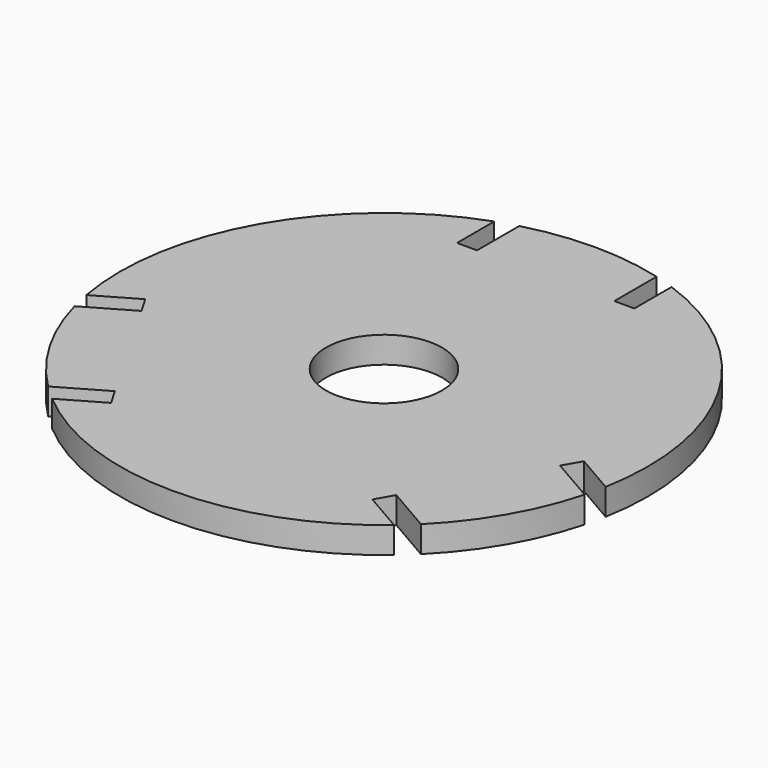
from build123d import *

# Parameters (mm, degrees)
F0_R     = 13.97
F1_DEPTH = 6.35


with BuildPart() as f1:
    # F0 (on Top) → F1 (new body)
    with BuildSketch(Plane.XY):
        with BuildLine():
            Line((-21.336, 48.616147), (-21.336, 59.808236))
            ThreePointArc((-21.336, 59.808236), (-54.992613, 31.75), (-62.463452, -11.4266))
            Line((-62.463452, -11.4266), (-52.770818, -5.830556))
            Line((-52.770818, -5.830556), (-50.357818, -10.009994))
            Line((-50.357818, -10.009994), (-61.356341, -16.359994))
            ThreePointArc((-61.356341, -16.359994), (-54.992613, -31.75), (-44.846341, -44.956153))
            Line((-44.846341, -44.956153), (-33.847818, -38.606153))
            Line((-33.847818, -38.606153), (-31.434818, -42.785592))
            Line((-31.434818, -42.785592), (-41.127452, -48.381636))
            ThreePointArc((-41.127452, -48.381636), (0, -63.5), (41.127452, -48.381636))
            Line((41.127452, -48.381636), (31.434818, -42.785592))
            Line((31.434818, -42.785592), (33.847818, -38.606153))
            Line((33.847818, -38.606153), (44.846341, -44.956153))
            ThreePointArc((44.846341, -44.956153), (54.992613, -31.75), (61.356341, -16.359994))
            Line((61.356341, -16.359994), (50.357818, -10.009994))
            Line((50.357818, -10.009994), (52.770818, -5.830556))
            Line((52.770818, -5.830556), (62.463452, -11.4266))
            ThreePointArc((62.463452, -11.4266), (54.992613, 31.75), (21.336, 59.808236))
            Line((21.336, 59.808236), (21.336, 48.616147))
            Line((21.336, 48.616147), (16.51, 48.616147))
            Line((16.51, 48.616147), (16.51, 61.316147))
            ThreePointArc((16.51, 61.316147), (0, 63.5), (-16.51, 61.316147))
            Line((-16.51, 61.316147), (-16.51, 48.616147))
            Line((-16.51, 48.616147), (-21.336, 48.616147))
        make_face()
        Circle(F0_R, mode=Mode.SUBTRACT)
    extrude(amount=F1_DEPTH)


solid = f1.part
